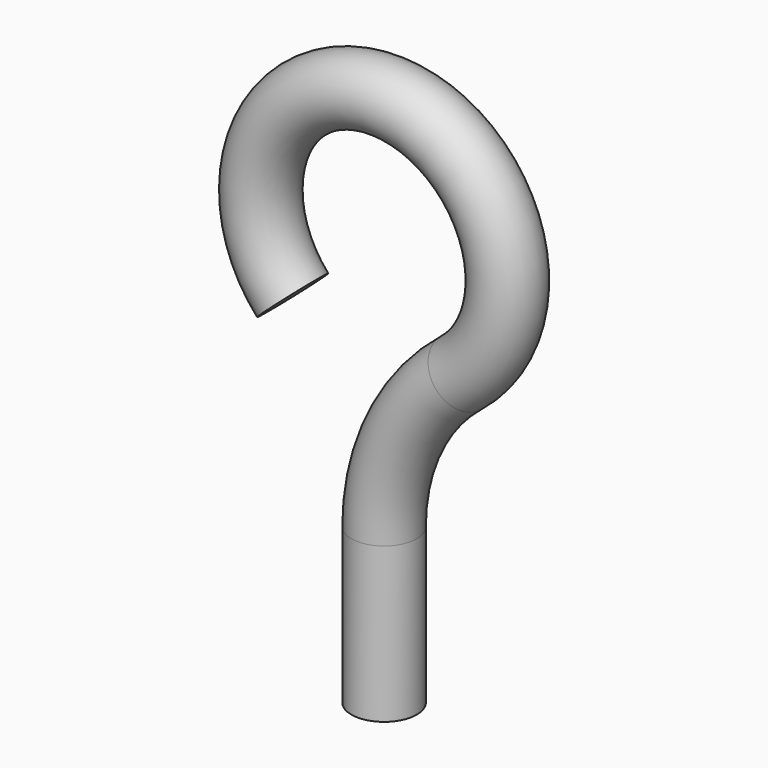
from build123d import *

# Parameters (mm, degrees)
F2_R = 0.79375


with BuildPart() as f3:
    # F3: sweep along a path in F0
    with BuildLine(Plane.XZ) as f3_path:
        Line((0, -10.0076), (0, -6.243235))
        ThreePointArc((0, -6.243235), (0.492885, -4.077673), (1.874439, -2.338736))
        ThreePointArc((1.874439, -2.338736), (0.238812, 2.987671), (-2.222147, -2.011286))
    # F2 (on offset) → F3 (sweep)
    with BuildSketch(Plane.XY.offset(-10.0077)):
        Circle(F2_R)
    sweep(path=f3_path.line)


solid = f3.part
